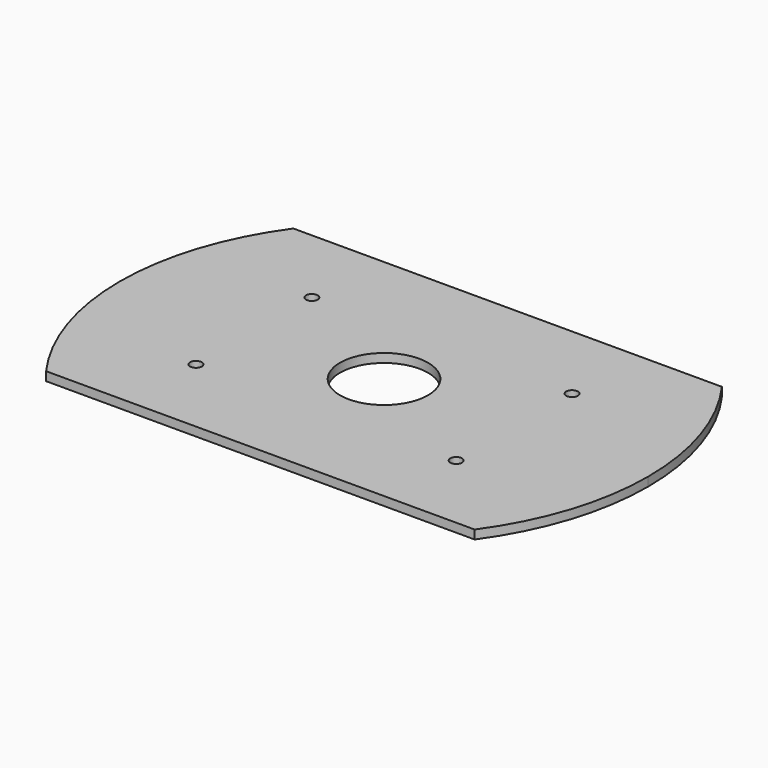
from build123d import *

# Parameters (mm, degrees)
F0_R     = 2
F0_R_2   = 15
F1_DEPTH = 3


with BuildPart() as f1:
    # F0 (on Top) → F1 (new body)
    with BuildSketch(Plane.XY):
        with BuildLine():
            ThreePointArc((72.999225, -52.641364), (85.644411, -27.659264), (90, 0))
            ThreePointArc((90, 0), (85.644411, 27.659264), (72.999225, 52.641364))
            Line((72.999225, 52.641364), (-72.999225, 52.641364))
            ThreePointArc((-72.999225, 52.641364), (-90, 0), (-72.999225, -52.641364))
            Line((-72.999225, -52.641364), (72.999225, -52.641364))
        make_face()
        with Locations((-44.325519, -24.665991)):
            Circle(F0_R, mode=Mode.SUBTRACT)
        with Locations((44.325519, -24.665991)):
            Circle(F0_R, mode=Mode.SUBTRACT)
        with Locations((-44.325519, 24.665991)):
            Circle(F0_R, mode=Mode.SUBTRACT)
        Circle(F0_R_2, mode=Mode.SUBTRACT)
        with Locations((44.325519, 24.665991)):
            Circle(F0_R, mode=Mode.SUBTRACT)
    extrude(amount=F1_DEPTH)


solid = f1.part
